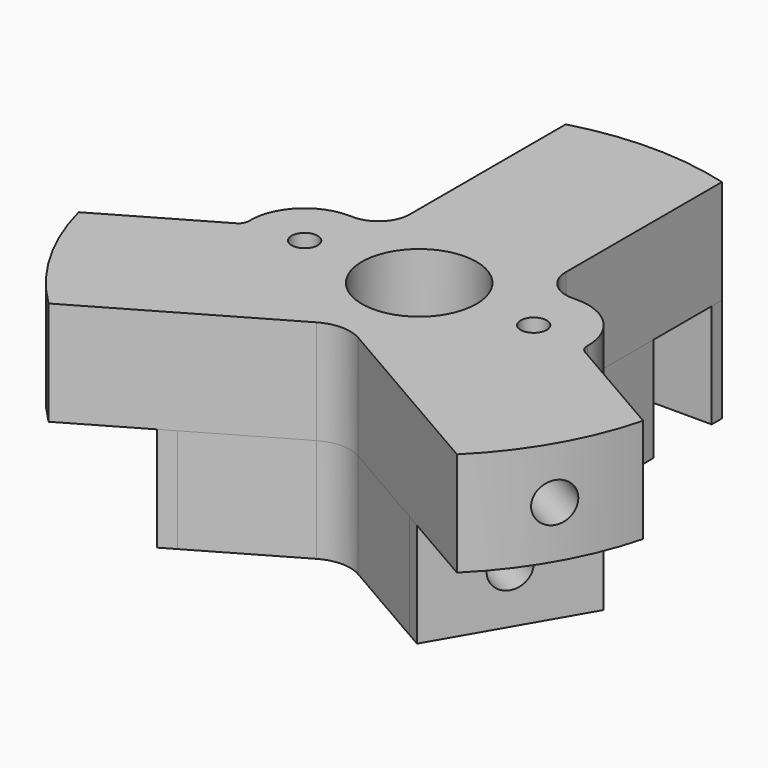
from build123d import *

# Parameters (mm, degrees)
F1_DEPTH  = 10
F0_R      = 1.25
F0_R_2    = 5.5
F2_R      = 1.9
F3_DEPTH  = 6.5
F4_COUNT  = 3
F6_R      = 1.5
F7_DEPTH  = 2.25
F9_DEPTH  = 10
F10_R     = 1.25
F10_R_2   = 5.5
F11_DEPTH = 10
F14_R     = 1.9
F15_DEPTH = 6.5
F16_COUNT = 3


with BuildPart() as f1:
    # F0 (on Top) → F1 (new body)
    with BuildSketch(Plane.XY):
        with BuildLine():
            Line((7.5, 25.75), (7.5, 26.9768419204))
            ThreePointArc((7.5, 26.9768419204), (0, 28), (-7.5, 26.9768419204))
            Line((-7.5, 26.9768419204), (-7.5, 25.75))
            Line((-7.5, 25.75), (7.5, 25.75))
        make_face()
    extrude(amount=F1_DEPTH)

    # F6 (on face) → F7 (cut, through all)
    with BuildSketch(Plane.XZ.offset(-25.75)):
        with Locations((0, 5)):
            Circle(F6_R)
    extrude(amount=-F7_DEPTH, mode=Mode.SUBTRACT)


with BuildPart() as f1b:
    # F0 (on Top) → F1, piece 2 (new body)
    with BuildSketch(Plane.XY):
        with BuildLine():
            Line((-7.5, 18.75), (-7.5, 17.1846588561))
            ThreePointArc((-7.5, 17.1846588561), (-16.237976321, 9.375), (-18.6323511247, -2.0971388997))
            Line((-18.6323511247, -2.0971388997), (-19.987976321, -2.8798094716))
            Line((-19.987976321, -2.8798094716), (-12.487976321, -15.8701905284))
            Line((-12.487976321, -15.8701905284), (-11.1323511247, -15.0875199564))
            ThreePointArc((-11.1323511247, -15.0875199564), (0, -18.75), (11.1323511247, -15.0875199564))
            Line((11.1323511247, -15.0875199564), (12.487976321, -15.8701905284))
            Line((12.487976321, -15.8701905284), (19.987976321, -2.8798094716))
            Line((19.987976321, -2.8798094716), (18.6323511247, -2.0971388997))
            ThreePointArc((18.6323511247, -2.0971388997), (16.237976321, 9.375), (7.5, 17.1846588561))
            Line((7.5, 17.1846588561), (7.5, 18.75))
            Line((7.5, 18.75), (-7.5, 18.75))
        make_face()
        with Locations((-11, 0)):
            Circle(F0_R, mode=Mode.SUBTRACT)
        Circle(F0_R_2, mode=Mode.SUBTRACT)
        with Locations((11, 0)):
            Circle(F0_R, mode=Mode.SUBTRACT)
    extrude(amount=F1_DEPTH)


with BuildPart() as f3:
    # F2 (on face) → F3 (new body)
    with BuildSketch(Plane(origin=(-16.237976321, -9.375, 0), x_dir=(0.5, -0.8660254038, 0), z_dir=(-0.8660254038, -0.5, 0))):
        with Locations((0, 5)):
            Circle(F2_R)
    extrude(amount=-F3_DEPTH)


with BuildPart() as f4_1:
    # F4: instance of F3
    add(f3.part.rotate(Axis((0, 0, 0), (0, 0, -1)), 1 * 360 / F4_COUNT))


with BuildPart() as f4_2:
    # F4: instance of F3
    add(f3.part.rotate(Axis((0, 0, 0), (0, 0, -1)), 2 * 360 / F4_COUNT))


with BuildPart() as f1b_1:
    add(f1b.part)

    # F5: cut F3, F4_1, F4_2
    add(f3.part, mode=Mode.SUBTRACT)
    add(f4_1.part, mode=Mode.SUBTRACT)
    add(f4_2.part, mode=Mode.SUBTRACT)

    # F8 (on face) → F9 (cut, through all)
    with BuildSketch(Plane.XY.offset(10)):
        with BuildLine():
            ThreePointArc((-16.2486181818, -0.1204457634), (-14.7546531303, 3.6694795096), (-11, 5.25))
            Line((-11, 5.25), (-10.5, 5.25))
            ThreePointArc((-10.5, 5.25), (-8.3786796564, 6.1286796564), (-7.5, 8.25))
            Line((-7.5, 8.25), (-7.5, 17.1846588561))
            ThreePointArc((-7.5, 17.1846588561), (-16.237976321, 9.375), (-18.6323511247, -2.0971388997))
            Line((-18.6323511247, -2.0971388997), (-16.7483549783, -1.0094132174))
            ThreePointArc((-16.7483549783, -1.0094132174), (-16.3766506716, -0.6334200592), (-16.2486181818, -0.1204457634))
        make_face()
        with BuildLine():
            ThreePointArc((11, 5.25), (14.7546531303, 3.6694795096), (16.2486181818, -0.1204457634))
            ThreePointArc((16.2486181818, -0.1204457634), (16.3766506716, -0.6334200592), (16.7483549783, -1.0094132174))
            Line((16.7483549783, -1.0094132174), (18.6323511247, -2.0971388997))
            ThreePointArc((18.6323511247, -2.0971388997), (16.237976321, 9.375), (7.5, 17.1846588561))
            Line((7.5, 17.1846588561), (7.5, 8.25))
            ThreePointArc((7.5, 8.25), (8.3786796564, 6.1286796564), (10.5, 5.25))
            Line((10.5, 5.25), (11, 5.25))
        make_face()
        with BuildLine():
            Line((-2, -9.8149545762), (-11.1323511247, -15.0875199564))
            ThreePointArc((-11.1323511247, -15.0875199564), (0, -18.75), (11.1323511247, -15.0875199564))
            Line((11.1323511247, -15.0875199564), (2, -9.8149545762))
            ThreePointArc((2, -9.8149545762), (0, -9.2790561914), (-2, -9.8149545762))
        make_face()
    extrude(amount=-F9_DEPTH, mode=Mode.SUBTRACT)


with BuildPart() as f11:
    # F10 (on face) → F11 (new body)
    with BuildSketch(Plane.XY.offset(10)):
        with BuildLine():
            Line((-16.7483549783, -1.0094132174), (-27.112630417, -6.9932304318))
            ThreePointArc((-27.112630417, -6.9932304318), (-24.248711306, -14), (-19.612630417, -19.9836114886))
            Line((-19.612630417, -19.9836114886), (-2, -9.8149545762))
            ThreePointArc((-2, -9.8149545762), (0, -9.2790561914), (2, -9.8149545762))
            Line((2, -9.8149545762), (19.612630417, -19.9836114886))
            ThreePointArc((19.612630417, -19.9836114886), (24.248711306, -14), (27.112630417, -6.9932304318))
            Line((27.112630417, -6.9932304318), (16.7483549783, -1.0094132174))
            ThreePointArc((16.7483549783, -1.0094132174), (16.3766506716, -0.6334200592), (16.2486181818, -0.1204457634))
            ThreePointArc((16.2486181818, -0.1204457634), (14.7546531303, 3.6694795096), (11, 5.25))
            Line((11, 5.25), (10.5, 5.25))
            ThreePointArc((10.5, 5.25), (8.3786796564, 6.1286796564), (7.5, 8.25))
            Line((7.5, 8.25), (7.5, 26.9768419204))
            ThreePointArc((7.5, 26.9768419204), (0, 28), (-7.5, 26.9768419204))
            Line((-7.5, 26.9768419204), (-7.5, 8.25))
            ThreePointArc((-7.5, 8.25), (-8.3786796564, 6.1286796564), (-10.5, 5.25))
            Line((-10.5, 5.25), (-11, 5.25))
            ThreePointArc((-11, 5.25), (-14.7546531303, 3.6694795096), (-16.2486181818, -0.1204457634))
            ThreePointArc((-16.2486181818, -0.1204457634), (-16.3766506716, -0.6334200592), (-16.7483549783, -1.0094132174))
        make_face()
        with Locations((-11, 0)):
            Circle(F10_R, mode=Mode.SUBTRACT)
        Circle(F10_R_2, mode=Mode.SUBTRACT)
        with Locations((11, 0)):
            Circle(F10_R, mode=Mode.SUBTRACT)
    extrude(amount=F11_DEPTH)

    # F16: F15 ×3 about axis
    f16_axis = Axis((0, 0, 10), (0, 0, -1))


with BuildPart() as f15:
    # F14 (on plane+point) → F15 (new body, symmetric)
    with BuildSketch(Plane.XZ.offset(-28)):
        with Locations((0, 15)):
            Circle(F14_R)
    extrude(amount=F15_DEPTH, both=True)


with BuildPart() as f11_1:
    add(f11.part)
    for i in range(1, F16_COUNT):
        add(f15.part.rotate(f16_axis, i * 360 / F16_COUNT), mode=Mode.SUBTRACT)

    # F16#seed: cut F15
    add(f15.part, mode=Mode.SUBTRACT)


solid = Compound([f1.part, f1b_1.part, f11_1.part])
